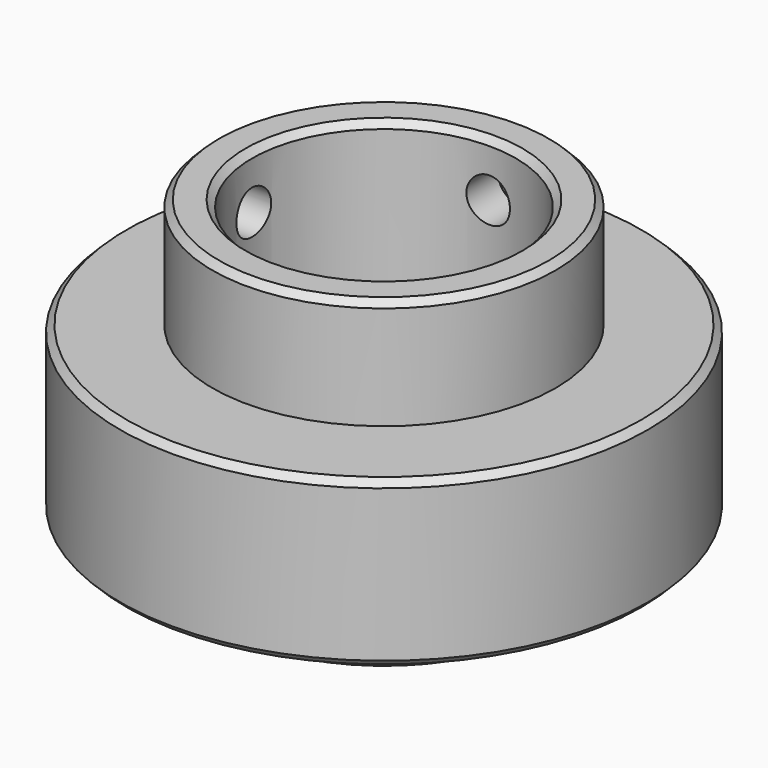
from build123d import *

# Parameters (mm, degrees)
F0_R          = 26
F0_R_2        = 20
F1_DEPTH      = 29.2
F1_DEPTH_BACK = 20
F2_SIZE       = 1
F4_D          = 6.6
F4_DEPTH      = 26.001
F6_D          = 6.6
F6_DEPTH      = 26.0010001
F7_R          = 40
F8_DEPTH      = 12.5
F8_DEPTH_BACK = 12.5
F9_DEPTH      = 25
F10_SIZE      = 1


with BuildPart() as f1:
    # F0 (on Top) → F1 (new body, two sides)
    with BuildSketch(Plane.XY) as f1_sk:
        Circle(F0_R)
        Circle(F0_R_2, mode=Mode.SUBTRACT)
    extrude(amount=F1_DEPTH)
    extrude(f1_sk.sketch, amount=-F1_DEPTH_BACK)

    # F2
    f2_edges = [f1.edges().sort_by_distance(p)[0] for p in [
        (-20, 0, 29.2),
        (-26, 0, 29.2),
        (-20, 0, -20),
        (-26, 0, -20),
    ]]
    chamfer(f2_edges, length=F2_SIZE)

    # F4 (through all, one way)
    with BuildSketch(Plane.XZ):
        with Locations((0, 21)):
            Circle(F4_D / 2)
    extrude(amount=-F4_DEPTH, mode=Mode.SUBTRACT)

    # F6 (through all, one way)
    with BuildSketch(Plane.YZ):
        with Locations((0, 21)):
            Circle(F6_D / 2)
    extrude(amount=-F6_DEPTH, mode=Mode.SUBTRACT)

    # F7 (on Top) → F8 (join, two sides)
    with BuildSketch(Plane.XY) as f8_sk:
        Circle(F7_R)
    extrude(amount=F8_DEPTH)
    extrude(f8_sk.sketch, amount=-F8_DEPTH_BACK)

    # F9 (cut): a face of the model
    f9_faces = [f1.faces().sort_by_distance(p)[0] for p in [
        (0, 0, 12.5),
    ]]
    extrude(f9_faces, amount=-F9_DEPTH, mode=Mode.SUBTRACT)

    # F10
    f10_edges = [f1.edges().sort_by_distance(p)[0] for p in [
        (-40, 0, 12.5),
        (-40, 0, -12.5),
    ]]
    chamfer(f10_edges, length=F10_SIZE)


solid = f1.part
